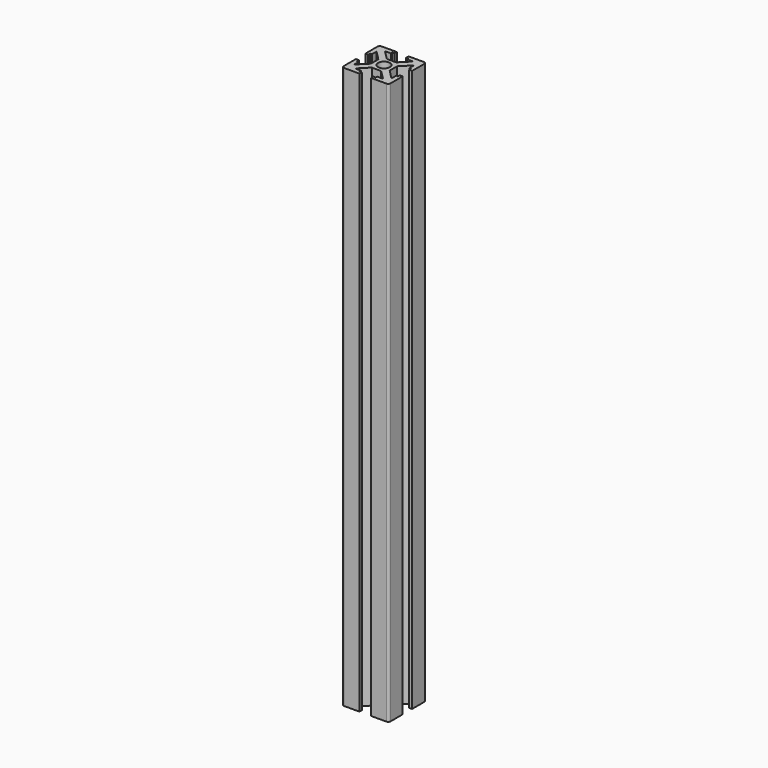
from build123d import *

# Parameters (mm, degrees)
F1_DEPTH = 240
F2_R     = 1
F3_R     = 2.5
F4_DEPTH = 240


with BuildPart() as f1:
    # F0 (on Top) → F1 (new body)
    with BuildSketch(Plane.XY):
        Polygon((0, 4), (-2, 4), (-6, 8), (-3.5, 8.0038368255), (-3.5, 8.7538368255), (-2.5, 8.7538368255), (-2.5, 10.0038368255), (-10, 10), (-10, 2.4999990186), (-8.75, 2.4999990186), (-8.75, 3.4999990186), (-8, 3.4999990186), (-8, 5.9999990186), (-4, 2), (-4, 0), (-4, -2), (-8, -5.9999990186), (-8, -3.4999990186), (-8.75, -3.4999990186), (-8.75, -2.4999990186), (-10, -2.4999990186), (-10, -10), (-2.5, -10.0038368255), (-2.5, -8.7538368255), (-3.5, -8.7538368255), (-3.5, -8.0038368255), (-6, -8), (-2, -4), (0, -4), (2, -4), (6, -8), (3.5, -8.0038368255), (3.5, -8.7538368255), (2.5, -8.7538368255), (2.5, -10.0038368255), (10, -10), (10, -2.4999990186), (8.75, -2.4999990186), (8.75, -3.4999990186), (8, -3.4999990186), (8, -5.9999990186), (4, -2), (4, 0), (4, 2), (8, 5.9999990186), (8, 3.4999990186), (8.75, 3.4999990186), (8.75, 2.4999990186), (10, 2.4999990186), (10, 10), (2.5, 10.0038368255), (2.5, 8.7538368255), (3.5, 8.7538368255), (3.5, 8.0038368255), (6, 8), (2, 4), align=None)
    extrude(amount=F1_DEPTH)

    # F2
    f2_edges = [f1.edges().sort_by_distance(p)[0] for p in [
        (-10, -10, 120),
        (10, -10, 120),
        (-10, 10, 120),
        (10, 10, 120),
    ]]
    fillet(f2_edges, radius=F2_R)

    # F3 (on face) → F4 (cut, through all)
    with BuildSketch(Plane(origin=(0, 0, 0), x_dir=(1, 0, 0), z_dir=(0, 0, -1))):
        Circle(F3_R)
    extrude(amount=-F4_DEPTH, mode=Mode.SUBTRACT)


solid = f1.part
